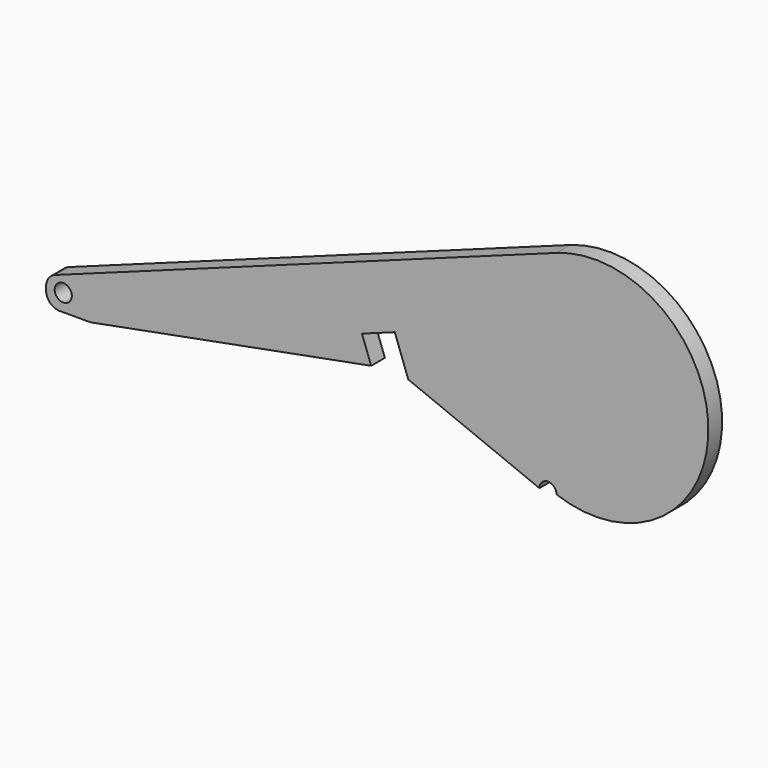
from build123d import *

# Parameters (mm, degrees)
F0_R     = 3.175
F1_DEPTH = 6.35
F2_R     = 5.08
F4_DEPTH = 3.175
F6_DEPTH = 3.175


with BuildPart() as f1:
    # F0 (on Front) → F1 (new body)
    with BuildSketch(Plane.XZ):
        with BuildLine():
            Line((0, 9.952783), (0, 0))
            Line((0, 0), (16.424974, 0))
            Line((16.424974, 0), (120.286547, 19.615395))
            Line((120.286547, 19.615395), (116.876498, 28.984427))
            Line((116.876498, 28.984427), (129.012049, 33.401406))
            Line((129.012049, 33.401406), (134.029747, 19.615395))
            Line((134.029747, 19.615395), (182.527998, 0))
            ThreePointArc((182.527998, 0), (185.702998, 3.175), (188.877998, 0))
            ThreePointArc((188.877998, 0), (245.074731, 39.349376), (188.877998, 78.698752))
            Line((188.877998, 78.698752), (0, 9.952783))
        make_face()
        with Locations((6.35, 6.35)):
            Circle(F0_R, mode=Mode.SUBTRACT)
    extrude(amount=F1_DEPTH)

    # F2
    f2_edges = [f1.edges().sort_by_distance(p)[0] for p in [
        (0, -3.175, 9.952783),
        (0, -3.175, 0),
    ]]
    fillet(f2_edges, radius=F2_R)

    # F3 (on face) → F4 (join)
    with BuildSketch(Plane(origin=(0, 0, 0), x_dir=(-1, 0, 0), z_dir=(0, 1, 0))):
        Polygon((-9.025761, 8.281487), (-131.065451, 52.700301), (-131.644688, 51.108862), (-9.604997, 6.690047), (-9.333524, 7.435914), align=None)
    extrude(amount=F4_DEPTH)

    # F5 (on face) → F6 (join)
    with BuildSketch(Plane(origin=(0, 0, 0), x_dir=(-1, 0, 0), z_dir=(0, 1, 0))):
        with BuildLine():
            Line((-9.436891, 7.151916), (-9.604997, 6.690047))
            ThreePointArc((-9.604997, 6.690047), (-6.261769, 2.230211), (-1.886095, 5.682861))
            Line((-1.886095, 5.682861), (-3.166984, 6.149066))
            ThreePointArc((-3.166984, 6.149066), (-6.853723, 3.200678), (-9.436891, 7.151916))
        make_face()
    extrude(amount=F6_DEPTH)


solid = f1.part
